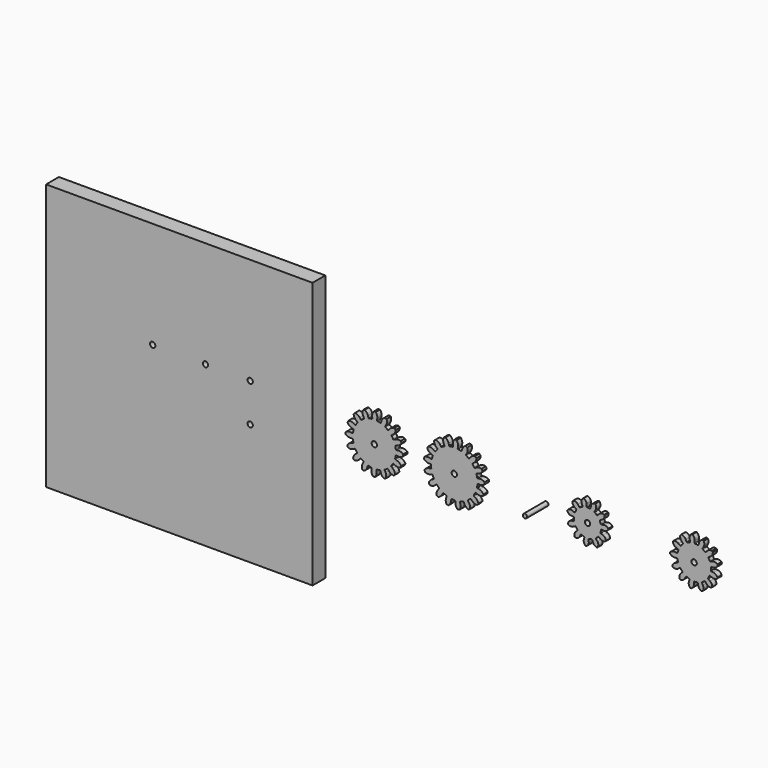
from build123d import *

# Parameters (mm, degrees)
F0_R      = 5
F1_DEPTH  = 10
F2_R      = 5
F3_DEPTH  = 10
F4_W      = 500
F4_H      = 500
F4_R      = 5
F5_DEPTH  = 30
F6_R      = 4
F7_DEPTH  = 50
F8_R      = 5
F9_DEPTH  = 10
F10_R     = 5
F11_DEPTH = 10


with BuildPart() as f1:
    # F0 (on Front) → F1 (new body)
    with BuildSketch(Plane.XZ):
        with BuildLine():
            ThreePointArc((-12.100502, 43.451825), (-14.434246, 47.776201), (-18.305612, 50.802604))
            ThreePointArc((-18.305612, 50.802604), (-19.94003, 50.183615), (-21.553561, 49.512059))
            ThreePointArc((-21.553561, 49.512059), (-22.292086, 44.653955), (-21.021475, 39.907152))
            Line((-21.021475, 39.907152), (-20.830496, 39.544597))
            Line((-20.830496, 39.544597), (-19.426398, 36.87906))
            ThreePointArc((-19.426398, 36.87906), (-19.336911, 35.981045), (-19.89852, 35.274621))
            ThreePointArc((-19.89852, 35.274621), (-22.010419, 33.996933), (-24.040562, 32.592965))
            ThreePointArc((-24.040562, 32.592965), (-24.914966, 32.36968), (-25.697695, 32.818874))
            Line((-25.697695, 32.818874), (-27.555067, 35.19095))
            Line((-27.555067, 35.19095), (-27.807699, 35.51359))
            ThreePointArc((-27.807699, 35.51359), (-31.618665, 38.615707), (-36.353495, 39.930232))
            ThreePointArc((-36.353495, 39.930232), (-37.626624, 38.732895), (-38.860339, 37.494987))
            ThreePointArc((-38.860339, 37.494987), (-37.683531, 32.724063), (-34.693116, 28.824831))
            Line((-34.693116, 28.824831), (-34.377931, 28.562959))
            Line((-34.377931, 28.562959), (-32.060657, 26.637648))
            ThreePointArc((-32.060657, 26.637648), (-31.634327, 25.842235), (-31.882848, 24.974667))
            ThreePointArc((-31.882848, 24.974667), (-33.345039, 22.986048), (-34.683371, 20.912048))
            ThreePointArc((-34.683371, 20.912048), (-35.405768, 20.37114), (-36.300813, 20.486604))
            Line((-36.300813, 20.486604), (-38.924556, 21.967331))
            Line((-38.924556, 21.967331), (-39.281427, 22.168733))
            ThreePointArc((-39.281427, 22.168733), (-43.989429, 23.576322), (-48.866888, 22.978843))
            ThreePointArc((-48.866888, 22.978843), (-49.584905, 21.385444), (-50.250982, 19.769643))
            ThreePointArc((-50.250982, 19.769643), (-47.338, 15.812229), (-43.083045, 13.354191))
            Line((-43.083045, 13.354191), (-42.691638, 13.232868))
            Line((-42.691638, 13.232868), (-39.813971, 12.340895))
            ThreePointArc((-39.813971, 12.340895), (-39.115702, 11.76918), (-39.013302, 10.872545))
            ThreePointArc((-39.013302, 10.872545), (-39.603178, 8.475745), (-40.045951, 6.047462))
            ThreePointArc((-40.045951, 6.047462), (-40.506362, 5.271279), (-41.377462, 5.035434))
            Line((-41.377462, 5.035434), (-44.368135, 5.399385))
            Line((-44.368135, 5.399385), (-44.774913, 5.448887))
            ThreePointArc((-44.774913, 5.448887), (-49.663201, 4.947656), (-53.94074, 2.529135))
            ThreePointArc((-53.94074, 2.529135), (-53.994334, 0.782252), (-53.991369, -0.96545))
            ThreePointArc((-53.991369, -0.96545), (-49.785687, -3.506873), (-44.913971, -4.149504))
            Line((-44.913971, -4.149504), (-44.50593, -4.111806))
            Line((-44.50593, -4.111806), (-41.505969, -3.834646))
            ThreePointArc((-41.505969, -3.834646), (-40.642067, -4.095627), (-40.204334, -4.884822))
            ThreePointArc((-40.204334, -4.884822), (-39.832093, -7.324913), (-39.311898, -9.737796))
            ThreePointArc((-39.311898, -9.737796), (-39.44023, -10.631087), (-40.154768, -11.182335))
            Line((-40.154768, -11.182335), (-43.057066, -11.990569))
            Line((-43.057066, -11.990569), (-43.451825, -12.100502))
            ThreePointArc((-43.451825, -12.100502), (-47.776201, -14.434246), (-50.802604, -18.305612))
            ThreePointArc((-50.802604, -18.305612), (-50.183615, -19.94003), (-49.512059, -21.553561))
            ThreePointArc((-49.512059, -21.553561), (-44.653955, -22.292086), (-39.907152, -21.021475))
            Line((-39.907152, -21.021475), (-39.544597, -20.830496))
            Line((-39.544597, -20.830496), (-36.87906, -19.426398))
            ThreePointArc((-36.87906, -19.426398), (-35.981045, -19.336911), (-35.274621, -19.89852))
            ThreePointArc((-35.274621, -19.89852), (-33.996933, -22.010419), (-32.592965, -24.040562))
            ThreePointArc((-32.592965, -24.040562), (-32.36968, -24.914966), (-32.818874, -25.697695))
            Line((-32.818874, -25.697695), (-35.19095, -27.555067))
            Line((-35.19095, -27.555067), (-35.51359, -27.807699))
            ThreePointArc((-35.51359, -27.807699), (-38.615707, -31.618665), (-39.930232, -36.353495))
            ThreePointArc((-39.930232, -36.353495), (-38.732895, -37.626624), (-37.494987, -38.860339))
            ThreePointArc((-37.494987, -38.860339), (-32.724063, -37.683531), (-28.824831, -34.693116))
            Line((-28.824831, -34.693116), (-28.562959, -34.377931))
            Line((-28.562959, -34.377931), (-26.637648, -32.060657))
            ThreePointArc((-26.637648, -32.060657), (-25.842235, -31.634327), (-24.974667, -31.882848))
            ThreePointArc((-24.974667, -31.882848), (-22.986048, -33.345039), (-20.912048, -34.683371))
            ThreePointArc((-20.912048, -34.683371), (-20.37114, -35.405768), (-20.486604, -36.300813))
            Line((-20.486604, -36.300813), (-21.967331, -38.924556))
            Line((-21.967331, -38.924556), (-22.168733, -39.281427))
            ThreePointArc((-22.168733, -39.281427), (-23.576322, -43.989429), (-22.978843, -48.866888))
            ThreePointArc((-22.978843, -48.866888), (-21.385444, -49.584905), (-19.769643, -50.250982))
            ThreePointArc((-19.769643, -50.250982), (-15.812229, -47.338), (-13.354191, -43.083045))
            Line((-13.354191, -43.083045), (-13.232868, -42.691638))
            Line((-13.232868, -42.691638), (-12.340895, -39.813971))
            ThreePointArc((-12.340895, -39.813971), (-11.76918, -39.115702), (-10.872545, -39.013302))
            ThreePointArc((-10.872545, -39.013302), (-8.475745, -39.603178), (-6.047462, -40.045951))
            ThreePointArc((-6.047462, -40.045951), (-5.271279, -40.506362), (-5.035434, -41.377462))
            Line((-5.035434, -41.377462), (-5.399385, -44.368135))
            Line((-5.399385, -44.368135), (-5.448887, -44.774913))
            ThreePointArc((-5.448887, -44.774913), (-4.947656, -49.663201), (-2.529135, -53.94074))
            ThreePointArc((-2.529135, -53.94074), (-0.782252, -53.994334), (0.96545, -53.991369))
            ThreePointArc((0.96545, -53.991369), (3.506873, -49.785687), (4.149504, -44.913971))
            Line((4.149504, -44.913971), (4.111806, -44.50593))
            Line((4.111806, -44.50593), (3.834646, -41.505969))
            ThreePointArc((3.834646, -41.505969), (4.095627, -40.642067), (4.884822, -40.204334))
            ThreePointArc((4.884822, -40.204334), (7.324913, -39.832093), (9.737796, -39.311898))
            ThreePointArc((9.737796, -39.311898), (10.631087, -39.44023), (11.182335, -40.154768))
            Line((11.182335, -40.154768), (11.990569, -43.057066))
            Line((11.990569, -43.057066), (12.100502, -43.451825))
            ThreePointArc((12.100502, -43.451825), (14.434246, -47.776201), (18.305612, -50.802604))
            ThreePointArc((18.305612, -50.802604), (19.94003, -50.183615), (21.553561, -49.512059))
            ThreePointArc((21.553561, -49.512059), (22.292086, -44.653955), (21.021475, -39.907152))
            Line((21.021475, -39.907152), (20.830496, -39.544597))
            Line((20.830496, -39.544597), (19.426398, -36.87906))
            ThreePointArc((19.426398, -36.87906), (19.336911, -35.981045), (19.89852, -35.274621))
            ThreePointArc((19.89852, -35.274621), (22.010419, -33.996933), (24.040562, -32.592965))
            ThreePointArc((24.040562, -32.592965), (24.914966, -32.36968), (25.697695, -32.818874))
            Line((25.697695, -32.818874), (27.555067, -35.19095))
            Line((27.555067, -35.19095), (27.807699, -35.51359))
            ThreePointArc((27.807699, -35.51359), (31.618665, -38.615707), (36.353495, -39.930232))
            ThreePointArc((36.353495, -39.930232), (37.626624, -38.732895), (38.860339, -37.494987))
            ThreePointArc((38.860339, -37.494987), (37.683531, -32.724063), (34.693116, -28.824831))
            Line((34.693116, -28.824831), (34.377931, -28.562959))
            Line((34.377931, -28.562959), (32.060657, -26.637648))
            ThreePointArc((32.060657, -26.637648), (31.634327, -25.842235), (31.882848, -24.974667))
            ThreePointArc((31.882848, -24.974667), (33.345039, -22.986048), (34.683371, -20.912048))
            ThreePointArc((34.683371, -20.912048), (35.405768, -20.37114), (36.300813, -20.486604))
            Line((36.300813, -20.486604), (38.924556, -21.967331))
            Line((38.924556, -21.967331), (39.281427, -22.168733))
            ThreePointArc((39.281427, -22.168733), (43.989429, -23.576322), (48.866888, -22.978843))
            ThreePointArc((48.866888, -22.978843), (49.584905, -21.385444), (50.250982, -19.769643))
            ThreePointArc((50.250982, -19.769643), (47.338, -15.812229), (43.083045, -13.354191))
            Line((43.083045, -13.354191), (42.691638, -13.232868))
            Line((42.691638, -13.232868), (39.813971, -12.340895))
            ThreePointArc((39.813971, -12.340895), (39.115702, -11.76918), (39.013302, -10.872545))
            ThreePointArc((39.013302, -10.872545), (39.603178, -8.475745), (40.045951, -6.047462))
            ThreePointArc((40.045951, -6.047462), (40.506362, -5.271279), (41.377462, -5.035434))
            Line((41.377462, -5.035434), (44.368135, -5.399385))
            Line((44.368135, -5.399385), (44.774913, -5.448887))
            ThreePointArc((44.774913, -5.448887), (49.663201, -4.947656), (53.94074, -2.529135))
            ThreePointArc((53.94074, -2.529135), (53.994334, -0.782252), (53.991369, 0.96545))
            ThreePointArc((53.991369, 0.96545), (49.785687, 3.506873), (44.913971, 4.149504))
            Line((44.913971, 4.149504), (44.50593, 4.111806))
            Line((44.50593, 4.111806), (41.505969, 3.834646))
            ThreePointArc((41.505969, 3.834646), (40.642067, 4.095627), (40.204334, 4.884822))
            ThreePointArc((40.204334, 4.884822), (39.832093, 7.324913), (39.311898, 9.737796))
            ThreePointArc((39.311898, 9.737796), (39.44023, 10.631087), (40.154768, 11.182335))
            Line((40.154768, 11.182335), (43.057066, 11.990569))
            Line((43.057066, 11.990569), (43.451825, 12.100502))
            ThreePointArc((43.451825, 12.100502), (47.776201, 14.434246), (50.802604, 18.305612))
            ThreePointArc((50.802604, 18.305612), (50.183615, 19.94003), (49.512059, 21.553561))
            ThreePointArc((49.512059, 21.553561), (44.653955, 22.292086), (39.907152, 21.021475))
            Line((39.907152, 21.021475), (39.544597, 20.830496))
            Line((39.544597, 20.830496), (36.87906, 19.426398))
            ThreePointArc((36.87906, 19.426398), (35.981045, 19.336911), (35.274621, 19.89852))
            ThreePointArc((35.274621, 19.89852), (33.996933, 22.010419), (32.592965, 24.040562))
            ThreePointArc((32.592965, 24.040562), (32.36968, 24.914966), (32.818874, 25.697695))
            Line((32.818874, 25.697695), (35.19095, 27.555067))
            Line((35.19095, 27.555067), (35.51359, 27.807699))
            ThreePointArc((35.51359, 27.807699), (38.615707, 31.618665), (39.930232, 36.353495))
            ThreePointArc((39.930232, 36.353495), (38.732895, 37.626624), (37.494987, 38.860339))
            ThreePointArc((37.494987, 38.860339), (32.724063, 37.683531), (28.824831, 34.693116))
            Line((28.824831, 34.693116), (28.562959, 34.377931))
            Line((28.562959, 34.377931), (26.637648, 32.060657))
            ThreePointArc((26.637648, 32.060657), (25.842235, 31.634327), (24.974667, 31.882848))
            ThreePointArc((24.974667, 31.882848), (22.986048, 33.345039), (20.912048, 34.683371))
            ThreePointArc((20.912048, 34.683371), (20.37114, 35.405768), (20.486604, 36.300813))
            Line((20.486604, 36.300813), (21.967331, 38.924556))
            Line((21.967331, 38.924556), (22.168733, 39.281427))
            ThreePointArc((22.168733, 39.281427), (23.576322, 43.989429), (22.978843, 48.866888))
            ThreePointArc((22.978843, 48.866888), (21.385444, 49.584905), (19.769643, 50.250982))
            ThreePointArc((19.769643, 50.250982), (15.812229, 47.338), (13.354191, 43.083045))
            Line((13.354191, 43.083045), (13.232868, 42.691638))
            Line((13.232868, 42.691638), (12.340895, 39.813971))
            ThreePointArc((12.340895, 39.813971), (11.76918, 39.115702), (10.872545, 39.013302))
            ThreePointArc((10.872545, 39.013302), (8.475745, 39.603178), (6.047462, 40.045951))
            ThreePointArc((6.047462, 40.045951), (5.271279, 40.506362), (5.035434, 41.377462))
            Line((5.035434, 41.377462), (5.399385, 44.368135))
            Line((5.399385, 44.368135), (5.448887, 44.774913))
            ThreePointArc((5.448887, 44.774913), (4.947656, 49.663201), (2.529135, 53.94074))
            ThreePointArc((2.529135, 53.94074), (0.782252, 53.994334), (-0.96545, 53.991369))
            ThreePointArc((-0.96545, 53.991369), (-3.506873, 49.785687), (-4.149504, 44.913971))
            Line((-4.149504, 44.913971), (-4.111806, 44.50593))
            Line((-4.111806, 44.50593), (-3.834646, 41.505969))
            ThreePointArc((-3.834646, 41.505969), (-4.095627, 40.642067), (-4.884822, 40.204334))
            ThreePointArc((-4.884822, 40.204334), (-7.324913, 39.832093), (-9.737796, 39.311898))
            ThreePointArc((-9.737796, 39.311898), (-10.631087, 39.44023), (-11.182335, 40.154768))
            Line((-11.182335, 40.154768), (-11.990569, 43.057066))
            Line((-11.990569, 43.057066), (-12.100502, 43.451825))
        make_face()
        Circle(F0_R, mode=Mode.SUBTRACT)
    extrude(amount=F1_DEPTH)


with BuildPart() as f3:
    # F2 (on Front) → F3 (new body)
    with BuildSketch(Plane.XZ):
        with BuildLine():
            ThreePointArc((173.554279, 41.736516), (175.025681, 46.483499), (174.570469, 51.432403))
            ThreePointArc((174.570469, 51.432403), (172.875406, 52.208388), (171.155875, 52.928527))
            ThreePointArc((171.155875, 52.928527), (167.208996, 49.908424), (164.716578, 45.608805))
            Line((164.716578, 45.608805), (163.662004, 42.340528))
            ThreePointArc((163.662004, 42.340528), (163.175436, 41.761911), (162.423018, 41.688351))
            ThreePointArc((162.423018, 41.688351), (159.839122, 42.372652), (157.218076, 42.896962))
            ThreePointArc((157.218076, 42.896962), (156.57506, 43.294548), (156.393246, 44.028366))
            Line((156.393246, 44.028366), (156.886742, 47.426929))
            ThreePointArc((156.886742, 47.426929), (156.543976, 52.38489), (154.331753, 56.835164))
            ThreePointArc((154.331753, 56.835164), (152.470836, 56.946422), (150.607276, 56.996765))
            ThreePointArc((150.607276, 56.996765), (148.017909, 52.754826), (147.246999, 47.845186))
            Line((147.246999, 47.845186), (147.444276, 44.416651))
            ThreePointArc((147.444276, 44.416651), (147.199586, 43.701339), (146.524549, 43.360941))
            ThreePointArc((146.524549, 43.360941), (143.867941, 43.065623), (141.234486, 42.607696))
            ThreePointArc((141.234486, 42.607696), (140.491266, 42.74615), (140.056644, 43.364736))
            Line((140.056644, 43.364736), (139.289113, 46.712072))
            ThreePointArc((139.289113, 46.712072), (137.178471, 51.211412), (133.50801, 54.562022))
            ThreePointArc((133.50801, 54.562022), (131.732566, 53.993526), (129.976662, 53.367274))
            ThreePointArc((129.976662, 53.367274), (129.094514, 48.476396), (130.149229, 43.619808))
            Line((130.149229, 43.619808), (131.571713, 40.49406))
            ThreePointArc((131.571713, 40.49406), (131.601948, 39.738659), (131.09546, 39.177396))
            ThreePointArc((131.09546, 39.177396), (128.724928, 37.942342), (126.434726, 36.564024))
            ThreePointArc((126.434726, 36.564024), (125.691679, 36.424646), (125.062947, 36.844457))
            Line((125.062947, 36.844457), (123.138049, 39.688492))
            ThreePointArc((123.138049, 39.688492), (119.544584, 43.121549), (114.911601, 44.919976))
            ThreePointArc((114.911601, 44.919976), (113.461414, 43.748505), (112.05031, 42.530237))
            ThreePointArc((112.05031, 42.530237), (112.994521, 37.650961), (115.732415, 33.503334))
            Line((115.732415, 33.503334), (118.187993, 31.102522))
            ThreePointArc((118.187993, 31.102522), (118.489068, 30.409053), (118.219534, 29.702726))
            ThreePointArc((118.219534, 29.702726), (116.455231, 27.694738), (114.817588, 25.582179))
            ThreePointArc((114.817588, 25.582179), (114.175066, 25.183793), (113.437137, 25.348131))
            Line((113.437137, 25.348131), (110.614839, 27.30476))
            ThreePointArc((110.614839, 27.30476), (106.02387, 29.207882), (101.054076, 29.211239))
            ThreePointArc((101.054076, 29.211239), (100.125, 27.595006), (99.249275, 25.949256))
            ThreePointArc((99.249275, 25.949256), (101.892322, 21.740554), (105.943628, 18.862049))
            Line((105.943628, 18.862049), (109.10066, 17.510415))
            ThreePointArc((109.10066, 17.510415), (109.631914, 16.972535), (109.635735, 16.216539))
            ThreePointArc((109.635735, 16.216539), (108.715942, 13.706806), (107.952029, 11.145318))
            ThreePointArc((107.952029, 11.145318), (107.496808, 10.541729), (106.749345, 10.428398))
            Line((106.749345, 10.428398), (103.410814, 11.23337))
            ThreePointArc((103.410814, 11.23337), (98.442376, 11.349528), (93.806968, 9.557362))
            ThreePointArc((93.806968, 9.557362), (93.524481, 7.714649), (93.302406, 5.863684))
            ThreePointArc((93.302406, 5.863684), (97.287333, 2.893965), (102.104899, 1.67334))
            Line((102.104899, 1.67334), (105.53701, 1.55343))
            ThreePointArc((105.53701, 1.55343), (106.226694, 1.243783), (106.503355, 0.540218))
            ThreePointArc((106.503355, 0.540218), (106.552293, -2.132307), (106.765281, -4.79678))
            ThreePointArc((106.765281, -4.79678), (106.558843, -5.524054), (105.902793, -5.899747))
            Line((105.902793, -5.899747), (102.498917, -6.35515))
            ThreePointArc((102.498917, -6.35515), (97.824025, -8.041642), (94.149041, -11.38729))
            ThreePointArc((94.149041, -11.38729), (94.551295, -13.207614), (95.012861, -15.013811))
            ThreePointArc((95.012861, -15.013811), (99.801481, -16.343469), (104.734668, -15.741363))
            Line((104.734668, -15.741363), (107.978333, -14.613354))
            ThreePointArc((107.978333, -14.613354), (108.733301, -14.652949), (109.245437, -15.209062))
            ThreePointArc((109.245437, -15.209062), (110.256497, -17.683439), (111.417622, -20.091046))
            ThreePointArc((111.417622, -20.091046), (111.487846, -20.843783), (111.011814, -21.431098))
            Line((111.011814, -21.431098), (108.002304, -23.085371))
            ThreePointArc((108.002304, -23.085371), (104.252329, -26.346744), (102.034095, -30.794025))
            ThreePointArc((102.034095, -30.794025), (103.066763, -32.346116), (104.149634, -33.863608))
            ThreePointArc((104.149634, -33.863608), (109.095217, -33.373628), (113.477771, -31.030108))
            Line((113.477771, -31.030108), (116.094915, -28.806524))
            ThreePointArc((116.094915, -28.806524), (116.813205, -28.570719), (117.491649, -28.904275))
            ThreePointArc((117.491649, -28.904275), (119.328283, -30.846325), (121.280727, -32.671905))
            ThreePointArc((121.280727, -32.671905), (121.618129, -33.348444), (121.386405, -34.068061))
            Line((121.386405, -34.068061), (119.177713, -36.697785))
            ThreePointArc((119.177713, -36.697785), (116.859109, -41.093572), (116.397211, -46.041857))
            ThreePointArc((116.397211, -46.041857), (117.920825, -47.116096), (119.478753, -48.139936))
            ThreePointArc((119.478753, -48.139936), (123.913371, -45.896493), (127.153404, -42.128065))
            Line((127.153404, -42.128065), (128.790566, -39.109213))
            ThreePointArc((128.790566, -39.109213), (129.375169, -38.629855), (130.128293, -38.695804))
            ThreePointArc((130.128293, -38.695804), (132.542453, -39.843243), (135.022529, -40.840242))
            ThreePointArc((135.022529, -40.840242), (135.581541, -41.349212), (135.62542, -42.103944))
            Line((135.62542, -42.103944), (134.515842, -45.35396))
            ThreePointArc((134.515842, -45.35396), (133.941749, -50.290486), (135.298569, -55.07148))
            ThreePointArc((135.298569, -55.07148), (137.107357, -55.522786), (138.929936, -55.9147))
            ThreePointArc((138.929936, -55.9147), (142.254668, -52.220783), (143.914596, -47.536393))
            Line((143.914596, -47.536393), (144.350669, -44.129986))
            ThreePointArc((144.350669, -44.129986), (144.722631, -43.471815), (145.448722, -43.261251))
            ThreePointArc((145.448722, -43.261251), (148.114362, -43.459111), (150.787121, -43.492878))
            ThreePointArc((150.787121, -43.492878), (151.492246, -43.765541), (151.805802, -44.453456))
            Line((151.805802, -44.453456), (151.945193, -47.884831))
            ThreePointArc((151.945193, -47.884831), (153.193146, -52.69539), (156.185437, -56.663395))
            ThreePointArc((156.185437, -56.663395), (158.035112, -56.430816), (159.876192, -56.137873))
            ThreePointArc((159.876192, -56.137873), (161.642016, -51.492367), (161.497655, -46.524668))
            Line((161.497655, -46.524668), (160.673746, -43.19076))
            ThreePointArc((160.673746, -43.19076), (160.782831, -42.442666), (161.383827, -41.984027))
            ThreePointArc((161.383827, -41.984027), (163.940937, -41.205586), (166.445408, -40.27156))
            ThreePointArc((166.445408, -40.27156), (167.201414, -40.27109), (167.742301, -40.799282))
            Line((167.742301, -40.799282), (169.111834, -43.94859))
            ThreePointArc((169.111834, -43.94859), (172.013291, -47.983491), (176.236928, -50.602605))
            ThreePointArc((176.236928, -50.602605), (177.877681, -49.717551), (179.488613, -48.779316))
            ThreePointArc((179.488613, -48.779316), (179.457045, -43.809621), (177.527893, -39.229529))
            Line((177.527893, -39.229529), (175.555274, -36.418383))
            ThreePointArc((175.555274, -36.418383), (175.38675, -35.681399), (175.781482, -35.036626))
            ThreePointArc((175.781482, -35.036626), (177.884711, -33.387017), (179.882652, -31.611345))
            ThreePointArc((179.882652, -31.611345), (180.587437, -31.337805), (181.282604, -31.634939))
            Line((181.282604, -31.634939), (183.697317, -34.076849))
            ThreePointArc((183.697317, -34.076849), (187.860418, -36.791155), (192.744976, -37.707652))
            ThreePointArc((192.744976, -37.707652), (193.955214, -36.289656), (195.118435, -34.832842))
            ThreePointArc((195.118435, -34.832842), (193.293737, -30.210143), (189.840336, -26.636224))
            Line((189.840336, -26.636224), (186.985421, -24.727501))
            ThreePointArc((186.985421, -24.727501), (186.562048, -24.101162), (186.697205, -23.357336))
            ThreePointArc((186.697205, -23.357336), (188.0625, -21.059347), (189.284078, -18.681842))
            ThreePointArc((189.284078, -18.681842), (189.842456, -18.172177), (190.598017, -18.198122))
            Line((190.598017, -18.198122), (193.73179, -19.60284))
            ThreePointArc((193.73179, -19.60284), (198.594287, -20.629969), (203.480078, -19.720072))
            ThreePointArc((203.480078, -19.720072), (204.096352, -17.960642), (204.654761, -16.181999))
            ThreePointArc((204.654761, -16.181999), (201.283369, -12.530617), (196.772121, -10.44555))
            Line((196.772121, -10.44555), (193.420481, -9.697033))
            ThreePointArc((193.420481, -9.697033), (192.799438, -9.265929), (192.656768, -8.523507))
            ThreePointArc((192.656768, -8.523507), (193.099738, -5.887495), (193.379971, -3.229253))
            ThreePointArc((193.379971, -3.229253), (193.716531, -2.552295), (194.430444, -2.303548))
            Line((194.430444, -2.303548), (197.860042, -2.48136))
            ThreePointArc((197.860042, -2.48136), (202.765227, -1.682592), (206.992399, 0.930813))
            ThreePointArc((206.992399, 0.930813), (206.931479, 2.794057), (206.809659, 4.654312))
            ThreePointArc((206.809659, 4.654312), (202.346899, 6.841237), (197.387072, 7.155854))
            Line((197.387072, 7.155854), (193.991365, 6.643073))
            ThreePointArc((193.991365, 6.643073), (193.256527, 6.820718), (192.855297, 7.461468))
            ThreePointArc((192.855297, 7.461468), (192.316117, 10.079495), (191.617159, 12.659464))
            ThreePointArc((191.617159, 12.659464), (191.686447, 13.412289), (192.262292, 13.902133))
            Line((192.262292, 13.902133), (195.524531, 14.975242))
            ThreePointArc((195.524531, 14.975242), (199.809932, 17.492028), (202.807581, 21.455986))
            ThreePointArc((202.807581, 21.455986), (202.077693, 23.171403), (201.292098, 24.862033))
            ThreePointArc((201.292098, 24.862033), (196.34069, 25.289144), (191.602136, 23.79082))
            Line((191.602136, 23.79082), (188.620972, 22.085995))
            ThreePointArc((188.620972, 22.085995), (187.871583, 21.98619), (187.265981, 22.438731))
            ThreePointArc((187.265981, 22.438731), (185.81747, 24.685194), (184.233719, 26.838451))
            ThreePointArc((184.233719, 26.838451), (184.026376, 27.565468), (184.386384, 28.230254))
            Line((184.386384, 28.230254), (187.040679, 30.409355))
            ThreePointArc((187.040679, 30.409355), (190.127529, 34.304253), (191.490807, 39.08341))
            ThreePointArc((191.490807, 39.08341), (190.190526, 40.419322), (188.847255, 41.711998))
            ThreePointArc((188.847255, 41.711998), (184.075913, 40.321613), (180.198601, 37.212703))
            Line((180.198601, 37.212703), (178.034602, 34.546081))
            ThreePointArc((178.034602, 34.546081), (177.371871, 34.182306), (176.643688, 34.385518))
            ThreePointArc((176.643688, 34.385518), (174.481476, 35.957021), (172.226826, 37.392756))
            ThreePointArc((172.226826, 37.392756), (171.770855, 37.995779), (171.866405, 38.745722))
            Line((171.866405, 38.745722), (173.554279, 41.736516))
        make_face()
        with Locations((150, 0)):
            Circle(F2_R, mode=Mode.SUBTRACT)
    extrude(amount=F3_DEPTH)


with BuildPart() as f5:
    # F4 (on Front) → F5 (new body)
    with BuildSketch(Plane.XZ):
        with Locations((-350, -7.711786)):
            Rectangle(F4_W, F4_H)
        with Locations((-217, -29.711786)):
            Circle(F4_R, mode=Mode.SUBTRACT)
        with Locations((-400, 42.288214)):
            Circle(F4_R, mode=Mode.SUBTRACT)
        with Locations((-301, 42.288214)):
            Circle(F4_R, mode=Mode.SUBTRACT)
        with Locations((-217, 42.288214)):
            Circle(F4_R, mode=Mode.SUBTRACT)
    extrude(amount=F5_DEPTH)


with BuildPart() as f7:
    # F6 (on Front) → F7 (new body)
    with BuildSketch(Plane.XZ):
        with Locations((314.568102, 0)):
            Circle(F6_R)
    extrude(amount=F7_DEPTH)


with BuildPart() as f9:
    # F8 (on Front) → F9 (new body)
    with BuildSketch(Plane.XZ):
        with BuildLine():
            ThreePointArc((398.221013, 30.958786), (396.426016, 35.511186), (392.368007, 38.24595))
            ThreePointArc((392.368007, 38.24595), (391.922029, 38.154245), (391.477153, 38.057339))
            ThreePointArc((391.477153, 38.057339), (388.875657, 33.912634), (389.079635, 29.023384))
            Line((389.079635, 29.023384), (389.178846, 28.759708))
            Line((389.178846, 28.759708), (390.606886, 24.964363))
            ThreePointArc((390.606886, 24.964363), (390.587603, 24.07111), (389.956397, 23.438772))
            ThreePointArc((389.956397, 23.438772), (387.903814, 22.448436), (385.947849, 21.278794))
            ThreePointArc((385.947849, 21.278794), (385.072587, 21.099382), (384.315949, 21.574534))
            Line((384.315949, 21.574534), (381.931494, 24.854522))
            Line((381.931494, 24.854522), (381.765838, 25.082395))
            ThreePointArc((381.765838, 25.082395), (377.794576, 27.941669), (372.902237, 28.048373))
            ThreePointArc((372.902237, 28.048373), (372.576637, 27.730113), (372.254774, 27.408072))
            ThreePointArc((372.254774, 27.408072), (372.307053, 22.514849), (375.121978, 18.512029))
            Line((375.121978, 18.512029), (375.347994, 18.343848))
            Line((375.347994, 18.343848), (378.601256, 15.923057))
            ThreePointArc((378.601256, 15.923057), (379.067963, 15.16118), (378.878827, 14.287968))
            ThreePointArc((378.878827, 14.287968), (377.6875, 12.345134), (376.674394, 10.303694))
            ThreePointArc((376.674394, 10.303694), (376.035074, 9.679561), (375.141663, 9.670215))
            Line((375.141663, 9.670215), (371.362437, 11.140383))
            Line((371.362437, 11.140383), (371.09988, 11.242521))
            ThreePointArc((371.09988, 11.242521), (366.213202, 11.500869), (362.039816, 8.945636))
            ThreePointArc((362.039816, 8.945636), (361.937968, 8.501865), (361.841308, 8.056936))
            ThreePointArc((361.841308, 8.056936), (364.530764, 3.968759), (369.062918, 2.123236))
            Line((369.062918, 2.123236), (369.34398, 2.103946))
            Line((369.34398, 2.103946), (373.389576, 1.826294))
            ThreePointArc((373.389576, 1.826294), (374.194097, 1.437683), (374.507079, 0.600835))
            ThreePointArc((374.507079, 0.600835), (374.555247, -1.67766), (374.806654, -3.942756))
            ThreePointArc((374.806654, -3.942756), (374.606256, -4.813452), (373.859723, -5.304329))
            Line((373.859723, -5.304329), (369.885603, -6.110749))
            Line((369.885603, -6.110749), (369.609507, -6.166774))
            ThreePointArc((369.609507, -6.166774), (365.358897, -8.591375), (363.229485, -12.997277))
            ThreePointArc((363.229485, -12.997277), (363.383726, -13.425664), (363.542957, -13.852221))
            ThreePointArc((363.542957, -13.852221), (368.015707, -15.837384), (372.826162, -14.93967))
            Line((372.826162, -14.93967), (373.073035, -14.803944))
            Line((373.073035, -14.803944), (376.626518, -12.850305))
            ThreePointArc((376.626518, -12.850305), (377.513423, -12.742268), (378.229154, -13.277059))
            ThreePointArc((378.229154, -13.277059), (379.501523, -15.16781), (380.937623, -16.937408))
            ThreePointArc((380.937623, -16.937408), (381.239772, -17.778228), (380.877136, -18.594787))
            Line((380.877136, -18.594787), (377.969878, -21.421762))
            Line((377.969878, -21.421762), (377.7679, -21.618162))
            ThreePointArc((377.7679, -21.618162), (375.502898, -25.955919), (376.093533, -30.813647))
            ThreePointArc((376.093533, -30.813647), (376.454892, -31.09064), (376.81946, -31.363395))
            ThreePointArc((376.81946, -31.363395), (381.655437, -30.61527), (385.216908, -27.259336))
            Line((385.216908, -27.259336), (385.351212, -27.011686))
            Line((385.351212, -27.011686), (387.284375, -23.447023))
            ThreePointArc((387.284375, -23.447023), (387.972078, -22.87664), (388.863319, -22.93958))
            ThreePointArc((388.863319, -22.93958), (390.955921, -23.842287), (393.120763, -24.554553))
            ThreePointArc((393.120763, -24.554553), (393.829528, -25.098542), (393.965924, -25.981531))
            Line((393.965924, -25.981531), (393.04856, -29.931516))
            Line((393.04856, -29.931516), (392.984828, -30.205936))
            ThreePointArc((392.984828, -30.205936), (393.424556, -35.079642), (396.547715, -38.846901))
            ThreePointArc((396.547715, -38.846901), (397.001463, -38.884557), (397.45562, -38.916913))
            ThreePointArc((397.45562, -38.916913), (401.119436, -35.673023), (402.301182, -30.924355))
            Line((402.301182, -30.924355), (402.280276, -30.643409))
            Line((402.280276, -30.643409), (401.979353, -26.599477))
            ThreePointArc((401.979353, -26.599477), (402.249513, -25.74784), (403.033301, -25.318947))
            ThreePointArc((403.033301, -25.318947), (405.28175, -24.947006), (407.488011, -24.375801))
            ThreePointArc((407.488011, -24.375801), (408.378365, -24.450247), (408.970488, -25.119322))
            Line((408.970488, -25.119322), (410.334276, -28.938226))
            Line((410.334276, -28.938226), (410.429024, -29.203539))
            ThreePointArc((410.429024, -29.203539), (413.43387, -33.065826), (418.097973, -34.546539))
            ThreePointArc((418.097973, -34.546539), (418.500049, -34.332902), (418.899603, -34.114586))
            ThreePointArc((418.899603, -34.114586), (420.228022, -29.404844), (418.654846, -24.771111))
            Line((418.654846, -24.771111), (418.485368, -24.546066))
            Line((418.485368, -24.546066), (416.045901, -21.306784))
            ThreePointArc((416.045901, -21.306784), (415.812744, -20.444282), (416.240232, -19.659727))
            ThreePointArc((416.240232, -19.659727), (417.930661, -18.131227), (419.477869, -16.457905))
            ThreePointArc((419.477869, -16.457905), (420.26713, -16.03917), (421.126986, -16.281906))
            Line((421.126986, -16.281906), (424.338932, -18.757253))
            Line((424.338932, -18.757253), (424.562078, -18.929224))
            ThreePointArc((424.562078, -18.929224), (429.178026, -20.553844), (433.902253, -19.277895))
            ThreePointArc((433.902253, -19.277895), (434.125, -18.880794), (434.343096, -18.481119))
            ThreePointArc((434.343096, -18.481119), (432.914354, -13.800835), (429.085729, -10.753213))
            Line((429.085729, -10.753213), (428.821486, -10.655521))
            Line((428.821486, -10.655521), (425.017988, -9.249339))
            ThreePointArc((425.017988, -9.249339), (424.35554, -8.64981), (424.291003, -7.758683))
            ThreePointArc((424.291003, -7.758683), (424.886713, -5.558912), (425.283641, -3.314739))
            ThreePointArc((425.283641, -3.314739), (425.721225, -2.535771), (426.575815, -2.2751))
            Line((426.575815, -2.2751), (430.616149, -2.620985))
            Line((430.616149, -2.620985), (430.896846, -2.645015))
            ThreePointArc((430.896846, -2.645015), (435.658365, -1.516162), (438.942807, 2.111345))
            ThreePointArc((438.942807, 2.111345), (438.915505, 2.565833), (438.882898, 3.019972))
            ThreePointArc((438.882898, 3.019972), (435.150611, 6.184842), (430.282098, 6.678754))
            Line((430.282098, 6.678754), (430.006986, 6.618077))
            Line((430.006986, 6.618077), (426.047041, 5.744707))
            ThreePointArc((426.047041, 5.744707), (425.165625, 5.890916), (424.629553, 6.605688))
            ThreePointArc((424.629553, 6.605688), (423.94141, 8.778319), (423.062036, 10.880832))
            ThreePointArc((423.062036, 10.880832), (423.009013, 11.772718), (423.58701, 12.454034))
            Line((423.58701, 12.454034), (427.172955, 14.347427))
            Line((427.172955, 14.347427), (427.422084, 14.478968))
            ThreePointArc((427.422084, 14.478968), (430.817425, 18.00289), (431.619295, 22.830247))
            ThreePointArc((431.619295, 22.830247), (431.350611, 23.197827), (431.077655, 23.562244))
            ThreePointArc((431.077655, 23.562244), (426.226797, 24.206876), (421.864115, 21.990263))
            Line((421.864115, 21.990263), (421.66548, 21.790483))
            Line((421.66548, 21.790483), (418.806342, 18.914848))
            ThreePointArc((418.806342, 18.914848), (417.985801, 18.561318), (417.148394, 18.8728))
            ThreePointArc((417.148394, 18.8728), (415.394879, 20.328495), (413.518397, 21.621816))
            ThreePointArc((413.518397, 21.621816), (412.991601, 22.343452), (413.109496, 23.2291))
            Line((413.109496, 23.2291), (415.10254, 26.760633))
            Line((415.10254, 26.760633), (415.241004, 27.005981))
            ThreePointArc((415.241004, 27.005981), (416.19217, 31.806153), (414.25688, 36.300708))
            ThreePointArc((414.25688, 36.300708), (413.832121, 36.464674), (413.405476, 36.62367))
            ThreePointArc((413.405476, 36.62367), (408.976161, 34.543397), (406.50443, 30.32002))
            Line((406.50443, 30.32002), (406.445338, 30.044563))
            Line((406.445338, 30.044563), (405.594763, 26.079659))
            ThreePointArc((405.594763, 26.079659), (405.095612, 25.338632), (404.222741, 25.147932))
            ThreePointArc((404.222741, 25.147932), (401.960582, 25.424518), (399.682763, 25.498027))
            ThreePointArc((399.682763, 25.498027), (398.849448, 25.820298), (398.46981, 26.629092))
            Line((398.46981, 26.629092), (398.237175, 30.677526))
            Line((398.237175, 30.677526), (398.221013, 30.958786))
        make_face()
        with Locations((400, 0)):
            Circle(F8_R, mode=Mode.SUBTRACT)
        with BuildLine():
            ThreePointArc((398.237175, 30.677526), (398.230294, 30.818225), (398.221013, 30.958786))
            Line((398.221013, 30.958786), (398.237175, 30.677526))
        make_face()
        with BuildLine():
            Line((389.178846, 28.759708), (389.079635, 29.023384))
            ThreePointArc((389.079635, 29.023384), (389.128115, 28.891122), (389.178846, 28.759708))
        make_face()
        with BuildLine():
            ThreePointArc((406.50443, 30.32002), (406.473708, 30.182544), (406.445338, 30.044563))
            Line((406.445338, 30.044563), (406.50443, 30.32002))
        make_face()
        with BuildLine():
            Line((381.765838, 25.082395), (381.931494, 24.854522))
            ThreePointArc((381.931494, 24.854522), (381.849639, 24.969166), (381.765838, 25.082395))
        make_face()
        with BuildLine():
            ThreePointArc((415.10254, 26.760633), (415.172819, 26.882716), (415.241004, 27.005981))
            Line((415.241004, 27.005981), (415.10254, 26.760633))
        make_face()
        with BuildLine():
            Line((375.347994, 18.343848), (375.121978, 18.512029))
            ThreePointArc((375.121978, 18.512029), (375.234268, 18.426974), (375.347994, 18.343848))
        make_face()
        with BuildLine():
            ThreePointArc((421.864115, 21.990263), (421.763945, 21.891221), (421.66548, 21.790483))
            Line((421.66548, 21.790483), (421.864115, 21.990263))
        make_face()
        with BuildLine():
            Line((371.09988, 11.242521), (371.362437, 11.140383))
            ThreePointArc((371.362437, 11.140383), (371.231594, 11.192573), (371.09988, 11.242521))
        make_face()
        with BuildLine():
            ThreePointArc((427.172955, 14.347427), (427.298081, 14.412134), (427.422084, 14.478968))
            Line((427.422084, 14.478968), (427.172955, 14.347427))
        make_face()
        with BuildLine():
            Line((369.34398, 2.103946), (369.062918, 2.123236))
            ThreePointArc((369.062918, 2.123236), (369.203366, 2.112391), (369.34398, 2.103946))
        make_face()
        with BuildLine():
            ThreePointArc((430.282098, 6.678754), (430.144283, 6.64959), (430.006986, 6.618077))
            Line((430.006986, 6.618077), (430.282098, 6.678754))
        make_face()
        with BuildLine():
            Line((369.609507, -6.166774), (369.885603, -6.110749))
            ThreePointArc((369.885603, -6.110749), (369.747316, -6.137583), (369.609507, -6.166774))
        make_face()
        with BuildLine():
            ThreePointArc((430.616149, -2.620985), (430.756395, -2.634198), (430.896846, -2.645015))
            Line((430.896846, -2.645015), (430.616149, -2.620985))
        make_face()
        with BuildLine():
            Line((373.073035, -14.803944), (372.826162, -14.93967))
            ThreePointArc((372.826162, -14.93967), (372.950178, -14.872861), (373.073035, -14.803944))
        make_face()
        with BuildLine():
            ThreePointArc((429.085729, -10.753213), (428.954024, -10.703239), (428.821486, -10.655521))
            Line((428.821486, -10.655521), (429.085729, -10.753213))
        make_face()
        with BuildLine():
            Line((377.7679, -21.618162), (377.969878, -21.421762))
            ThreePointArc((377.969878, -21.421762), (377.86805, -21.5191), (377.7679, -21.618162))
        make_face()
        with BuildLine():
            ThreePointArc((424.338932, -18.757253), (424.449771, -18.844191), (424.562078, -18.929224))
            Line((424.562078, -18.929224), (424.338932, -18.757253))
        make_face()
        with BuildLine():
            Line((385.351212, -27.011686), (385.216908, -27.259336))
            ThreePointArc((385.216908, -27.259336), (385.285117, -27.136084), (385.351212, -27.011686))
        make_face()
        with BuildLine():
            ThreePointArc((418.654846, -24.771111), (418.571067, -24.657865), (418.485368, -24.546066))
            Line((418.485368, -24.546066), (418.654846, -24.771111))
        make_face()
        with BuildLine():
            Line((392.984828, -30.205936), (393.04856, -29.931516))
            ThreePointArc((393.04856, -29.931516), (393.015523, -30.068454), (392.984828, -30.205936))
        make_face()
        with BuildLine():
            ThreePointArc((410.334276, -28.938226), (410.380517, -29.071287), (410.429024, -29.203539))
            Line((410.429024, -29.203539), (410.334276, -28.938226))
        make_face()
        with BuildLine():
            Line((402.280276, -30.643409), (402.301182, -30.924355))
            ThreePointArc((402.301182, -30.924355), (402.291928, -30.783793), (402.280276, -30.643409))
        make_face()
    extrude(amount=F9_DEPTH)


with BuildPart() as f11:
    # F10 (on Front) → F11 (new body)
    with BuildSketch(Plane.XZ):
        with BuildLine():
            ThreePointArc((601.11674, 36.630994), (599.9907, 41.311921), (596.762098, 44.88336))
            ThreePointArc((596.762098, 44.88336), (595.561591, 44.780582), (594.364267, 44.6457))
            ThreePointArc((594.364267, 44.6457), (591.899557, 40.509971), (591.714296, 35.699074))
            Line((591.714296, 35.699074), (591.789571, 35.37475))
            Line((591.789571, 35.37475), (592.611877, 31.831834))
            ThreePointArc((592.611877, 31.831834), (592.472825, 30.944609), (591.756969, 30.402343))
            ThreePointArc((591.756969, 30.402343), (589.481708, 29.692011), (587.266672, 28.811671))
            ThreePointArc((587.266672, 28.811671), (586.369095, 28.782384), (585.702546, 29.384227))
            Line((585.702546, 29.384227), (584.111225, 32.654722))
            Line((584.111225, 32.654722), (583.965552, 32.954109))
            ThreePointArc((583.965552, 32.954109), (580.793159, 36.575568), (576.274643, 38.237513))
            ThreePointArc((576.274643, 38.237513), (575.25941, 37.588605), (574.261915, 36.912748))
            ThreePointArc((574.261915, 36.912748), (574.001492, 32.105334), (576.073186, 27.759402))
            Line((576.073186, 27.759402), (576.29056, 27.507209))
            Line((576.29056, 27.507209), (578.665151, 24.752257))
            ThreePointArc((578.665151, 24.752257), (578.954341, 23.902038), (578.572485, 23.08921))
            ThreePointArc((578.572485, 23.08921), (576.887949, 21.402876), (575.335747, 19.593995))
            ThreePointArc((575.335747, 19.593995), (574.554592, 19.150938), (573.684702, 19.374083))
            Line((573.684702, 19.374083), (570.755782, 21.530438))
            Line((570.755782, 21.530438), (570.487664, 21.727835))
            ThreePointArc((570.487664, 21.727835), (565.995673, 23.460193), (561.222381, 22.831913))
            ThreePointArc((561.222381, 22.831913), (560.625, 21.785531), (560.055848, 20.72353))
            ThreePointArc((560.055848, 20.72353), (562.059371, 16.345752), (565.913421, 13.460385))
            Line((565.913421, 13.460385), (566.223097, 13.338098))
            Line((566.223097, 13.338098), (569.605982, 12.002236))
            ThreePointArc((569.605982, 12.002236), (570.257163, 11.383798), (570.296787, 10.486618))
            ThreePointArc((570.296787, 10.486618), (569.588883, 8.2106), (569.055105, 5.887571))
            ThreePointArc((569.055105, 5.887571), (568.569326, 5.132243), (567.695376, 4.92557))
            Line((567.695376, 4.92557), (564.099837, 5.473791))
            Line((564.099837, 5.473791), (563.770696, 5.523976))
            ThreePointArc((563.770696, 5.523976), (558.988168, 4.97037), (555.053604, 2.195797))
            ThreePointArc((555.053604, 2.195797), (555.010928, 0.991655), (555.000505, -0.213198))
            ThreePointArc((555.000505, -0.213198), (558.808992, -3.158444), (563.562481, -3.922244))
            Line((563.562481, -3.922244), (563.893514, -3.886611))
            Line((563.893514, -3.886611), (567.509716, -3.497352))
            ThreePointArc((567.509716, -3.497352), (568.373711, -3.742333), (568.825737, -4.518332))
            ThreePointArc((568.825737, -4.518332), (569.256637, -6.862625), (569.863566, -9.167624))
            ThreePointArc((569.863566, -9.167624), (569.784448, -10.062187), (569.106649, -10.651332))
            Line((569.106649, -10.651332), (565.668187, -11.836836))
            Line((565.668187, -11.836836), (565.353425, -11.94536))
            ThreePointArc((565.353425, -11.94536), (561.37598, -14.658104), (559.181505, -18.94335))
            ThreePointArc((559.181505, -18.94335), (559.70331, -20.029397), (560.254004, -21.101086))
            ThreePointArc((560.254004, -21.101086), (564.994976, -21.939079), (569.558937, -20.406334))
            Line((569.558937, -20.406334), (569.835493, -20.220943))
            Line((569.835493, -20.220943), (572.856583, -18.195739))
            ThreePointArc((572.856583, -18.195739), (573.735461, -18.01114), (574.496335, -18.488187))
            ThreePointArc((574.496335, -18.488187), (575.967325, -20.363706), (577.57592, -22.122627))
            ThreePointArc((577.57592, -22.122627), (577.921589, -22.951492), (577.595217, -23.788142))
            Line((577.595217, -23.788142), (575.101542, -26.435787))
            Line((575.101542, -26.435787), (574.873266, -26.678157))
            ThreePointArc((574.873266, -26.678157), (572.61209, -30.928584), (572.660431, -35.742803))
            ThreePointArc((572.660431, -35.742803), (573.627178, -36.461956), (574.612832, -37.154969))
            ThreePointArc((574.612832, -37.154969), (579.200189, -35.693736), (582.529074, -32.215579))
            Line((582.529074, -32.215579), (582.687796, -31.922902))
            Line((582.687796, -31.922902), (584.421679, -28.725701))
            ThreePointArc((584.421679, -28.725701), (585.1141, -28.153813), (586.009515, -28.222621))
            ThreePointArc((586.009515, -28.222621), (588.183609, -29.199707), (590.425361, -30.009603))
            ThreePointArc((590.425361, -30.009603), (591.116628, -30.582886), (591.216451, -31.475376))
            Line((591.216451, -31.475376), (590.238833, -34.978617))
            Line((590.238833, -34.978617), (590.14934, -35.29931))
            ThreePointArc((590.14934, -35.29931), (590.122439, -40.113697), (592.402523, -44.354012))
            ThreePointArc((592.402523, -44.354012), (593.592742, -44.54152), (594.787554, -44.697096))
            ThreePointArc((594.787554, -44.697096), (598.170388, -41.271388), (599.501589, -36.644623))
            Line((599.501589, -36.644623), (599.506117, -36.311708))
            Line((599.506117, -36.311708), (599.555581, -32.674952))
            ThreePointArc((599.555581, -32.674952), (599.902919, -31.846786), (600.727747, -31.491592))
            ThreePointArc((600.727747, -31.491592), (603.106886, -31.346407), (605.468236, -31.021741))
            ThreePointArc((605.468236, -31.021741), (606.34674, -31.208109), (606.84989, -31.95198))
            Line((606.84989, -31.95198), (607.61229, -35.508268))
            Line((607.61229, -35.508268), (607.682081, -35.833817))
            ThreePointArc((607.682081, -35.833817), (609.895619, -40.109246), (613.885105, -42.80425))
            ThreePointArc((613.885105, -42.80425), (615.026131, -42.417159), (616.156385, -41.999658))
            ThreePointArc((616.156385, -41.999658), (617.559729, -37.394262), (616.588284, -32.678825))
            Line((616.588284, -32.678825), (616.43758, -32.381939))
            Line((616.43758, -32.381939), (614.791294, -29.138765))
            ThreePointArc((614.791294, -29.138765), (614.713979, -28.244044), (615.27926, -27.546219))
            ThreePointArc((615.27926, -27.546219), (617.318413, -26.312023), (619.258404, -24.927171))
            ThreePointArc((619.258404, -24.927171), (620.122891, -24.683931), (620.914102, -25.10877))
            Line((620.914102, -25.10877), (623.241863, -27.903402))
            Line((623.241863, -27.903402), (623.45495, -28.159228))
            ThreePointArc((623.45495, -28.159228), (627.401832, -30.91625), (632.186777, -31.448551))
            ThreePointArc((632.186777, -31.448551), (633.017215, -30.575538), (633.823982, -29.680604))
            ThreePointArc((633.823982, -29.680604), (632.926348, -24.950561), (629.874804, -21.226703))
            Line((629.874804, -21.226703), (629.603392, -21.033859))
            Line((629.603392, -21.033859), (626.6385, -18.927238))
            ThreePointArc((626.6385, -18.927238), (626.154243, -18.170932), (626.33048, -17.29034))
            ThreePointArc((626.33048, -17.29034), (627.5625, -15.249872), (628.636704, -13.122087))
            ThreePointArc((628.636704, -13.122087), (629.28913, -12.504962), (630.187145, -12.513444))
            Line((630.187145, -12.513444), (633.547005, -13.906204))
            Line((633.547005, -13.906204), (633.854573, -14.033699))
            ThreePointArc((633.854573, -14.033699), (638.630615, -14.640714), (643.114846, -12.888368))
            ThreePointArc((643.114846, -12.888368), (643.444453, -11.729429), (643.742913, -10.562081))
            ThreePointArc((643.742913, -10.562081), (640.749937, -6.790988), (636.317365, -4.911798))
            Line((636.317365, -4.911798), (635.987424, -4.867175))
            Line((635.987424, -4.867175), (632.383146, -4.379709))
            ThreePointArc((632.383146, -4.379709), (631.602885, -3.935079), (631.349703, -3.073451))
            ThreePointArc((631.349703, -3.073451), (631.492351, -0.694159), (631.45468, 1.689109))
            ThreePointArc((631.45468, 1.689109), (631.745582, 2.538744), (632.544677, 2.948561))
            Line((632.544677, 2.948561), (636.166933, 3.276739))
            Line((636.166933, 3.276739), (636.498521, 3.306781))
            ThreePointArc((636.498521, 3.306781), (641.00959, 4.988834), (644.165824, 8.624385))
            ThreePointArc((644.165824, 8.624385), (643.91909, 9.80375), (643.64087, 10.976087))
            ThreePointArc((643.64087, 10.976087), (639.238207, 12.924319), (634.440057, 12.52834))
            Line((634.440057, 12.52834), (634.12717, 12.41452))
            Line((634.12717, 12.41452), (630.709204, 11.171159))
            ThreePointArc((630.709204, 11.171159), (629.811687, 11.202254), (629.187088, 11.847527))
            ThreePointArc((629.187088, 11.847527), (628.207683, 14.020578), (627.066768, 16.11335))
            ThreePointArc((627.066768, 16.11335), (626.929504, 17.000853), (627.446616, 17.735087))
            Line((627.446616, 17.735087), (630.501452, 19.70902))
            Line((630.501452, 19.70902), (630.781097, 19.889717))
            ThreePointArc((630.781097, 19.889717), (633.993762, 23.475499), (635.098943, 28.161395))
            ThreePointArc((635.098943, 28.161395), (634.332393, 29.091009), (633.541229, 29.999766))
            ThreePointArc((633.541229, 29.999766), (628.737476, 29.67882), (624.672946, 27.098386))
            Line((624.672946, 27.098386), (624.448793, 26.852199))
            Line((624.448793, 26.852199), (622.000153, 24.162849))
            ThreePointArc((622.000153, 24.162849), (621.190991, 23.773285), (620.338062, 24.054381))
            ThreePointArc((620.338062, 24.054381), (618.460975, 25.523369), (616.478186, 26.846218))
            ThreePointArc((616.478186, 26.846218), (615.944201, 27.568273), (616.060865, 28.458717))
            Line((616.060865, 28.458717), (617.848456, 31.626202))
            Line((617.848456, 31.626202), (618.012095, 31.916159))
            ThreePointArc((618.012095, 31.916159), (619.190373, 36.584211), (617.991318, 41.246969))
            ThreePointArc((617.991318, 41.246969), (616.880558, 41.713868), (615.757697, 42.15086))
            ThreePointArc((615.757697, 42.15086), (611.653336, 39.634261), (609.25356, 35.460519))
            Line((609.25356, 35.460519), (609.169492, 35.138362))
            Line((609.169492, 35.138362), (608.251133, 31.619121))
            ThreePointArc((608.251133, 31.619121), (607.715695, 30.898143), (606.829832, 30.750665))
            ThreePointArc((606.829832, 30.750665), (604.485081, 31.179064), (602.114649, 31.42894))
            ThreePointArc((602.114649, 31.42894), (601.306274, 31.820133), (600.995765, 32.662799))
            Line((600.995765, 32.662799), (601.106594, 36.298202))
            Line((601.106594, 36.298202), (601.11674, 36.630994))
        make_face()
        with Locations((600, 0)):
            Circle(F10_R, mode=Mode.SUBTRACT)
    extrude(amount=F11_DEPTH)


solid = Compound([f1.part, f3.part, f5.part, f7.part, f9.part, f11.part])
